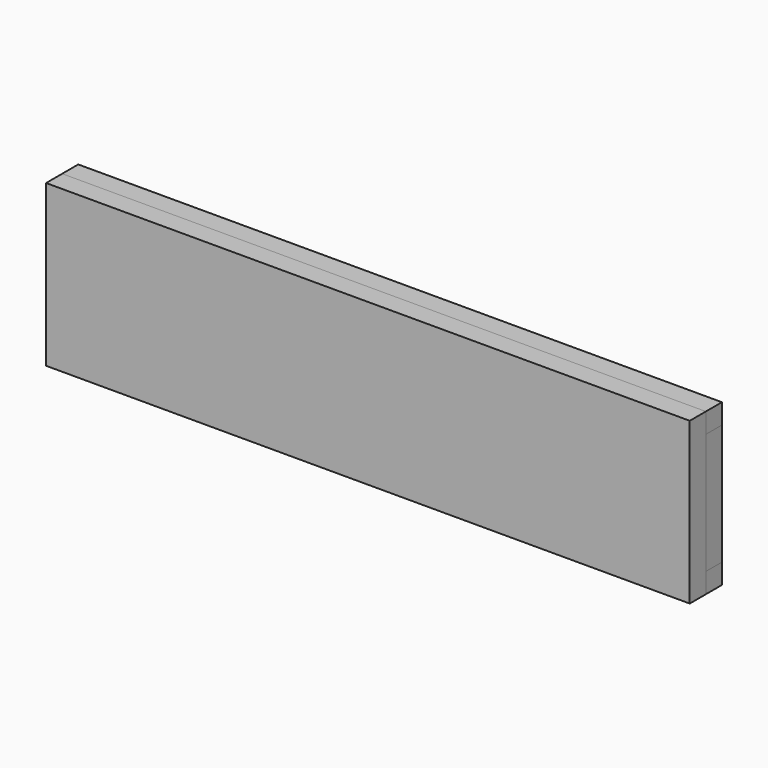
from build123d import *

# Parameters (mm, degrees)
F0_W     = 203.2
F0_H     = 50.8
F1_DEPTH = 3.175
F2_W     = 203.2
F2_H     = 6.35
F3_DEPTH = 6.35
F5_W     = 6.35
F5_H     = 38.1
F6_DEPTH = 6.35


with BuildPart() as f1:
    # F0 (on Front) → F1 (new body, symmetric)
    with BuildSketch(Plane.XZ):
        Rectangle(F0_W, F0_H)
    extrude(amount=F1_DEPTH, both=True)


with BuildPart() as f3:
    # F2 (on face) → F3 (new body)
    with BuildSketch(Plane(origin=(0, 3.175, 0), x_dir=(-1, 0, 0), z_dir=(0, 1, 0))):
        with Locations((0, 22.225)):
            Rectangle(F2_W, F2_H)
    extrude(amount=F3_DEPTH)


with BuildPart() as f4_1:
    # F4: instance of F3
    add(f3.part.mirror(Plane.XY))


with BuildPart() as f6:
    # F5 (on face) → F6 (new body)
    with BuildSketch(Plane(origin=(0, 3.175, 0), x_dir=(-1, 0, 0), z_dir=(0, 1, 0))):
        with Locations((98.425, 0)):
            Rectangle(F5_W, F5_H)
    extrude(amount=F6_DEPTH)


with BuildPart() as f7_1:
    # F7: instance of F6
    add(f6.part.mirror(Plane.YZ))


solid = Compound([f1.part, f3.part, f4_1.part, f6.part, f7_1.part])
